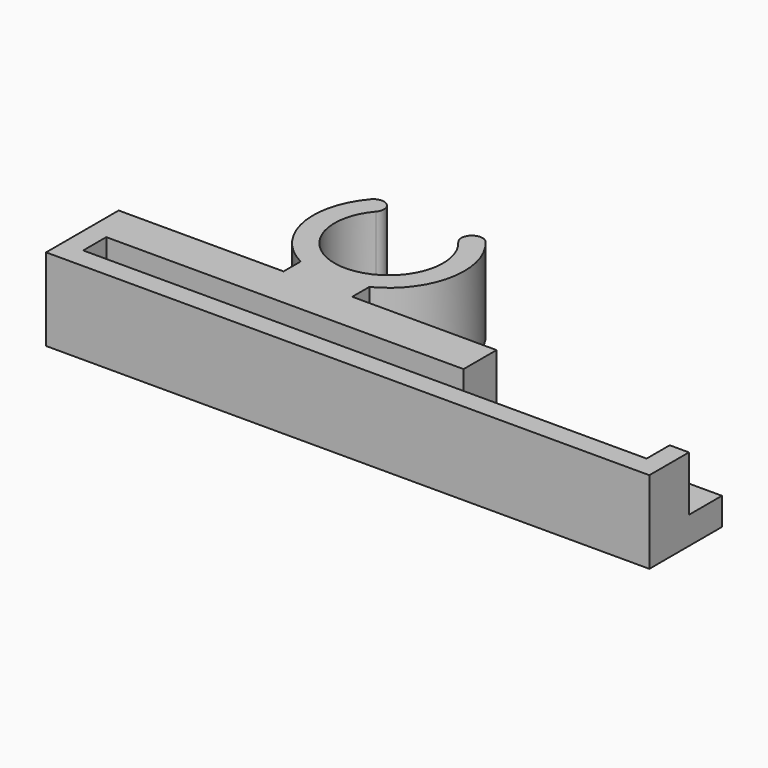
from build123d import *

# Parameters (mm, degrees)
F0_W     = 41
F0_H     = 2.1
F1_DEPTH = 6
F2_W     = 16.4
F2_H     = 3
F3_DEPTH = 4
F4_W     = 43.9
F4_H     = 6.6
F5_DEPTH = 1


with BuildPart() as f1:
    # F0 (on Top) → F1 (new body)
    with BuildSketch(Plane.XY):
        with BuildLine():
            ThreePointArc((3, 2.569533), (0, -3.95), (-3, 2.569533))
            ThreePointArc((-3, 2.569533), (-3.084459, 3.66229), (-4.177215, 3.577831))
            ThreePointArc((-4.177215, 3.577831), (-5.395403, -1.06753), (-2.5, -4.898979))
            Line((-2.5, -4.898979), (-2.5, -6.45))
            Line((-2.5, -6.45), (-14.5, -6.45))
            Line((-14.5, -6.45), (-14.5, -13.05))
            Line((-14.5, -13.05), (29.4, -13.05))
            Line((29.4, -13.05), (29.4, -6.45))
            Line((29.4, -6.45), (2.5, -6.45))
            Line((2.5, -6.45), (2.5, -4.898979))
            ThreePointArc((2.5, -4.898979), (5.395403, -1.06753), (4.177215, 3.577831))
            ThreePointArc((4.177215, 3.577831), (3.084459, 3.66229), (3, 2.569533))
        make_face()
        with Locations((7.5, -10.5)):
            Rectangle(F0_W, F0_H, mode=Mode.SUBTRACT)
    extrude(amount=F1_DEPTH)

    # F2 (on face) → F3 (cut)
    with BuildSketch(Plane.XY.offset(6)):
        with Locations((21.2, -7.95)):
            Rectangle(F2_W, F2_H)
    extrude(amount=-F3_DEPTH, mode=Mode.SUBTRACT)

    # F4 (on face) → F5 (join)
    with BuildSketch(Plane(origin=(0, 0, 0), x_dir=(1, 0, 0), z_dir=(0, 0, -1))):
        with Locations((7.45, 9.75)):
            Rectangle(F4_W, F4_H)
    extrude(amount=-F5_DEPTH)


solid = f1.part
